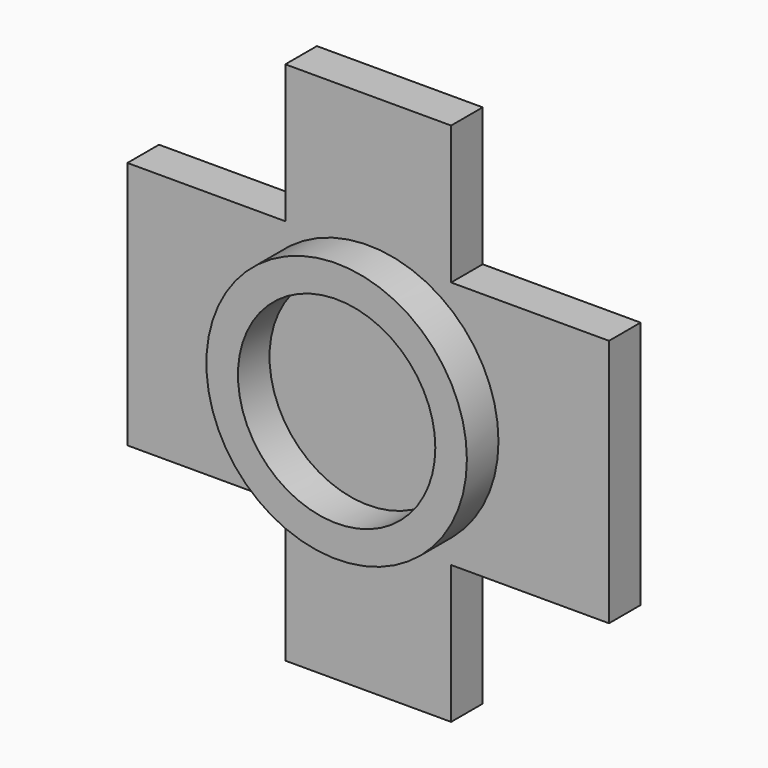
from build123d import *

# Parameters (mm, degrees)
F1_DEPTH = 2
F2_R     = 6.6
F2_R_2   = 5
F3_DEPTH = 2


with BuildPart() as f1:
    # F0 (on Front) → F1 (new body)
    with BuildSketch(Plane.XZ):
        Polygon((4.2, 13.3), (0, 13.3), (-4.2, 13.3), (-4.2, 6.3), (-12.2, 6.3), (-12.2, 0), (-12.2, -6.3), (-4.2, -6.3), (-4.2, -13.3), (0, -13.3), (4.2, -13.3), (4.2, -6.3), (12.2, -6.3), (12.2, 0), (12.2, 6.3), (4.2, 6.3), align=None)
    extrude(amount=F1_DEPTH)

    # F2 (on face) → F3 (join)
    with BuildSketch(Plane.XZ.offset(2)):
        Circle(F2_R)
        Circle(F2_R_2, mode=Mode.SUBTRACT)
    extrude(amount=F3_DEPTH)


solid = f1.part
